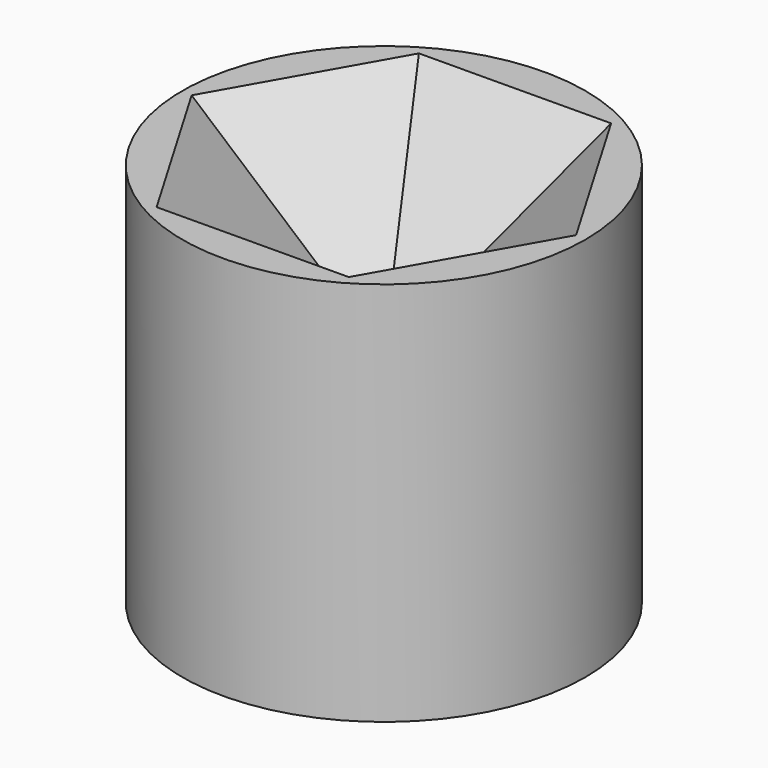
from build123d import *

# Parameters (mm, degrees)
F0_R     = 39.7343740688
F1_DEPTH = 75.946
F3_DEPTH = 29.21
F3_TAPER = 45


with BuildPart() as f1:
    # F0 (on Top) → F1 (new body)
    with BuildSketch(Plane.XY):
        Circle(F0_R)
    extrude(amount=F1_DEPTH)

    # F2 (on face) → F3 (cut)
    with BuildSketch(Plane.XY.offset(75.946)):
        Polygon((37.6749132279, 0.2816330117), (18.5935552713, 32.7682484466), (-19.0813579566, 32.4866154349), (-37.6749132279, -0.2816330117), (-18.5935552713, -32.7682484466), (19.0813579566, -32.4866154349), align=None)
    extrude(amount=-F3_DEPTH, taper=F3_TAPER, mode=Mode.SUBTRACT)


solid = f1.part
